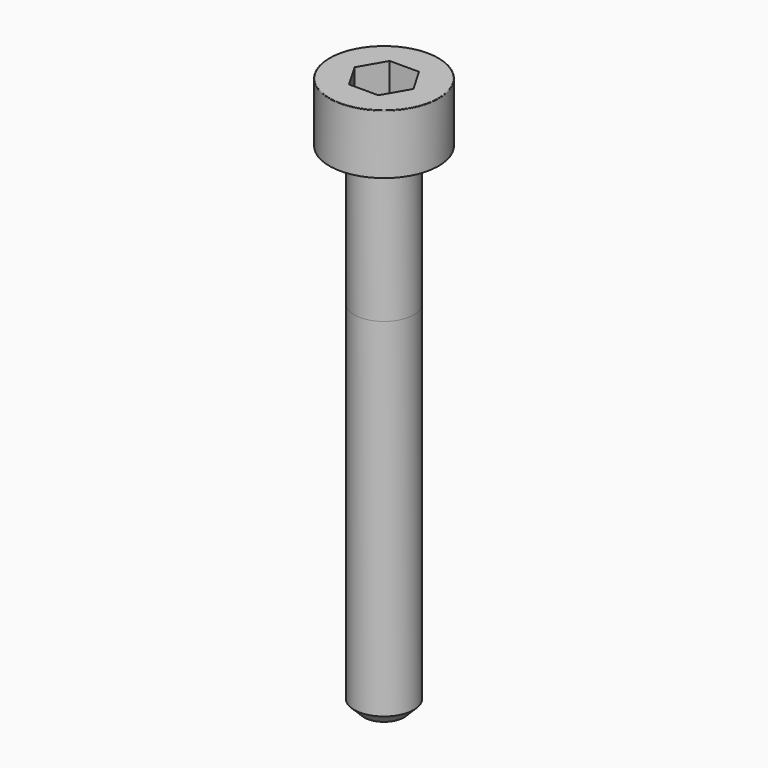
from build123d import *

# Parameters (mm, degrees)
POCKET_DEPTH = 2.56


with BuildPart() as part:
    # Sketch → Revolve (revolve)
    with BuildSketch(Plane.YZ):
        with BuildLine():
            Line((1.499, 0), (2.75, 0))
            Line((2.75, 0), (2.75, 2.97229))
            ThreePointArc((2.75, 2.97229), (2.741884, 2.991884), (2.72229, 3))
            Line((2.72229, 3), (0, 3))
            Line((0, -25), (0, 3))
            Line((1, -25), (0, -25))
            Line((1.5, -24.5), (1, -25))
            Line((1.5, -7), (1.5, -24.5))
            Line((1.499, 0), (1.5, -7))
        make_face()
    revolve(axis=Axis((0, 0, 0), (0, 0, 1)))

    # Sketch001 → Pocket (cut)
    with BuildSketch(Plane.XY.offset(3)):
        Polygon((1.478017, 0), (0.739008, 1.28), (-0.739008, 1.28), (-1.478017, 0), (-0.739008, -1.28), (0.739008, -1.28), align=None)
    extrude(amount=-POCKET_DEPTH, mode=Mode.SUBTRACT)


solid = part.part
